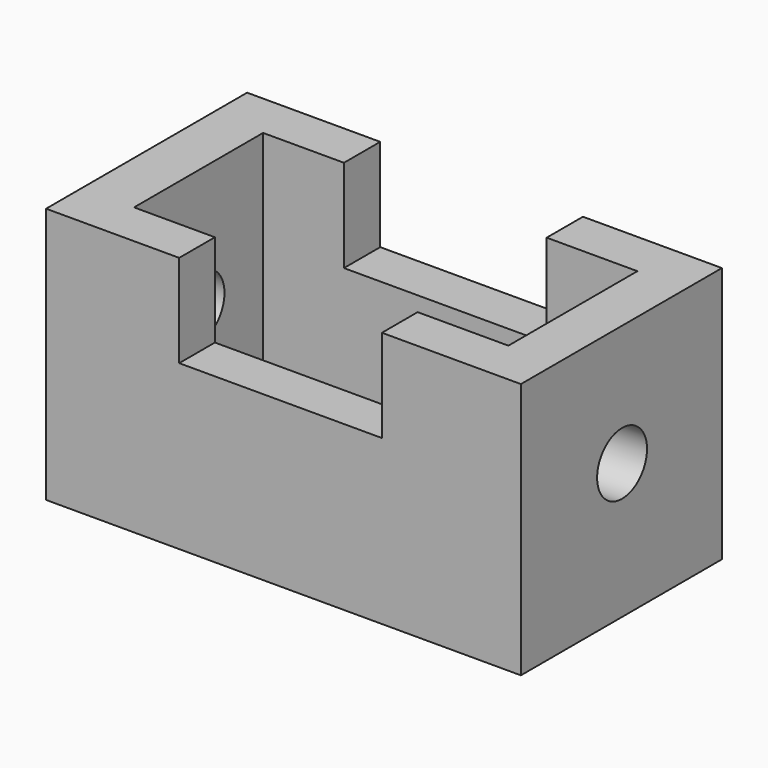
from build123d import *

# Parameters (mm, degrees)
F4_W     = 117.5877898932
F4_H     = 62.227293849
F0_DEPTH = 63.5
F5_W     = 92.6998779178
F5_H     = 39.9431586266
F1_DEPTH = 63.501
F2_R     = 7.7272697415
F3_DEPTH = 117.5887898932
F6_W     = 50.2068921924
F6_H     = 22.9567790627
F7_DEPTH = 62.228293849


with BuildPart() as f0:
    # F4 (on Top) → F0 (new body)
    with BuildSketch(Plane.XY):
        with Locations((1.7765834928, -0.2040341496)):
            Rectangle(F4_W, F4_H)
    extrude(amount=F0_DEPTH)

    # F5 (on face) → F1 (cut, through all)
    with BuildSketch(Plane.XY.offset(63.5)):
        with Locations((2.2740103304, -0.2917349339)):
            Rectangle(F5_W, F5_H)
    extrude(amount=-F1_DEPTH, mode=Mode.SUBTRACT)

    # F2 (on face) → F3 (cut, through all)
    with BuildSketch(Plane.YZ.offset(60.5704784393)):
        with Locations((0, 33.4859117866)):
            Circle(F2_R)
    extrude(amount=-F3_DEPTH, mode=Mode.SUBTRACT)

    # F6 (on face) → F7 (cut, through all)
    with BuildSketch(Plane.XZ.offset(31.3176810741)):
        with Locations((1.0511763394, 52.0216104686)):
            Rectangle(F6_W, F6_H)
    extrude(amount=-F7_DEPTH, mode=Mode.SUBTRACT)


solid = f0.part
